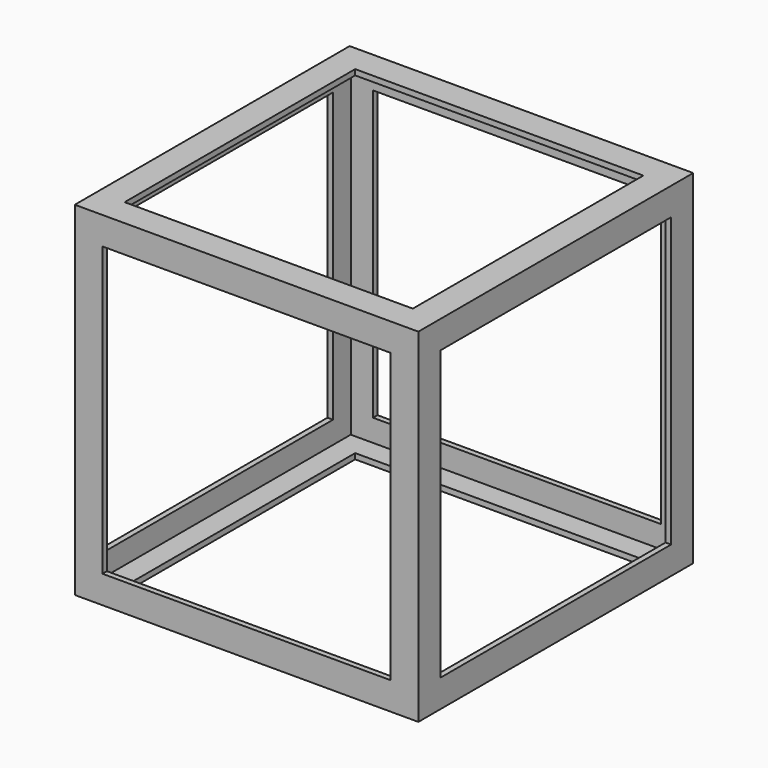
from build123d import *

# Parameters (mm, degrees)
F0_W      = 393.7
F0_H      = 393.7
F0_W_2    = 381
F0_H_2    = 381
F1_DEPTH  = 393.7
F2_W      = 330.2
F2_H      = 330.2
F3_DEPTH  = 6.35
F4_W      = 330.2
F4_H      = 330.2
F5_DEPTH  = 6.35
F6_W      = 330.2
F6_H      = 330.2
F7_DEPTH  = 6.35
F8_W      = 330.2
F8_H      = 330.2
F9_DEPTH  = 6.35
F10_W     = 381
F10_H     = 381
F11_DEPTH = 6.35
F12_W     = 387.35
F12_H     = 387.35
F13_DEPTH = 6.35
F14_W     = 330.2
F14_H     = 330.2
F15_DEPTH = 6.35
F16_W     = 330.2
F16_H     = 330.2
F17_DEPTH = 6.35


with BuildPart() as f1:
    # F0 (on Top) → F1 (new body)
    with BuildSketch(Plane.XY):
        Rectangle(F0_W, F0_H)
        Rectangle(F0_W_2, F0_H_2, mode=Mode.SUBTRACT)
    extrude(amount=F1_DEPTH)

    # F2 (on face) → F3 (cut)
    with BuildSketch(Plane(origin=(-196.85, 0, 0), x_dir=(0, -1, 0), z_dir=(-1, 0, 0))):
        with Locations((0, 196.85)):
            Rectangle(F2_W, F2_H)
    extrude(amount=-F3_DEPTH, mode=Mode.SUBTRACT)

    # F4 (on face) → F5 (cut)
    with BuildSketch(Plane(origin=(0, 196.85, 0), x_dir=(-1, 0, 0), z_dir=(0, 1, 0))):
        with Locations((0, 196.85)):
            Rectangle(F4_W, F4_H)
    extrude(amount=-F5_DEPTH, mode=Mode.SUBTRACT)

    # F6 (on face) → F7 (cut)
    with BuildSketch(Plane.YZ.offset(196.85)):
        with Locations((0, 196.85)):
            Rectangle(F6_W, F6_H)
    extrude(amount=-F7_DEPTH, mode=Mode.SUBTRACT)

    # F8 (on face) → F9 (cut)
    with BuildSketch(Plane.XZ.offset(196.85)):
        with Locations((0, 196.85)):
            Rectangle(F8_W, F8_H)
    extrude(amount=-F9_DEPTH, mode=Mode.SUBTRACT)

    # F12 (on face) → F13 (join)
    with BuildSketch(Plane.XY.offset(393.7)):
        with Locations((-3.175, 3.175)):
            Rectangle(F12_W, F12_H)
    extrude(amount=-F13_DEPTH)

    # F14 (on face) → F15 (cut)
    with BuildSketch(Plane.XY.offset(393.7)):
        Rectangle(F14_W, F14_H)
    extrude(amount=-F15_DEPTH, mode=Mode.SUBTRACT)


with BuildPart() as f11:
    # F10 (on face) → F11 (new body)
    with BuildSketch(Plane(origin=(0, 0, 0), x_dir=(1, 0, 0), z_dir=(0, 0, -1))):
        Rectangle(F10_W, F10_H)
    extrude(amount=-F11_DEPTH)

    # F16 (on face) → F17 (cut)
    with BuildSketch(Plane(origin=(0, 0, 0), x_dir=(1, 0, 0), z_dir=(0, 0, -1))):
        Rectangle(F16_W, F16_H)
    extrude(amount=-F17_DEPTH, mode=Mode.SUBTRACT)


solid = Compound([f1.part, f11.part])
